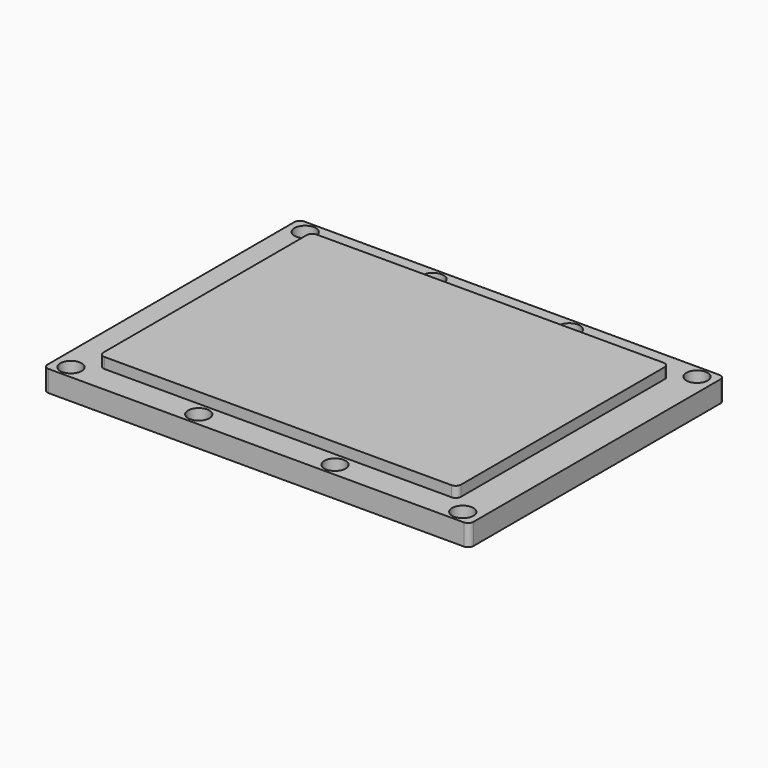
from build123d import *

# Parameters (mm, degrees)
SKETCH_W        = 40
SKETCH_H        = 30
PAD_DEPTH       = 2
SKETCH001_W     = 33.6
SKETCH001_H     = 24.9
PAD001_DEPTH    = 1
SKETCH002_R     = 1
POCKET_DEPTH    = 2
FILLET_R        = 0.5
SKETCH003_R     = 1
POCKET001_DEPTH = 2


with BuildPart() as part:
    # Sketch → Pad (new body)
    with BuildSketch(Plane.XY.offset(2)):
        Rectangle(SKETCH_W, SKETCH_H)
    extrude(amount=PAD_DEPTH)

    # Sketch001 (on Face6 of Pad) → Pad001 (join)
    with BuildSketch(Plane.XY.offset(4)):
        Rectangle(SKETCH001_W, SKETCH001_H)
    extrude(amount=PAD001_DEPTH)

    # Sketch002 → Pocket (cut)
    with BuildSketch(Plane.XY.offset(2)):
        with Locations((-18.4, 13.75)):
            Circle(SKETCH002_R)
        with Locations((-6.4, 13.75)):
            Circle(SKETCH002_R)
        with Locations((6.4, 13.75)):
            Circle(SKETCH002_R)
        with Locations((18.4, 13.75)):
            Circle(SKETCH002_R)
        with Locations((18.4, -13.75)):
            Circle(SKETCH002_R)
        with Locations((6.4, -13.75)):
            Circle(SKETCH002_R)
        with Locations((-6.4, -13.75)):
            Circle(SKETCH002_R)
        with Locations((-18.4, -13.75)):
            Circle(SKETCH002_R)
    extrude(amount=POCKET_DEPTH, mode=Mode.SUBTRACT)

    # Fillet
    fillet_edges = [part.edges().sort_by_distance(p)[0] for p in [
        (20, 15, 3),
        (16.8, 12.45, 4.5),
        (20, -15, 3),
        (16.8, -12.45, 4.5),
        (-20, -15, 3),
        (-16.8, -12.45, 4.5),
        (-20, 15, 3),
        (-16.8, 12.45, 4.5),
    ]]
    fillet(fillet_edges, radius=FILLET_R)

    # Sketch003 (on Face2 of Fillet) → Pocket001 (cut)
    with BuildSketch(Plane(origin=(0, 0, 2), x_dir=(1, 0, 0), z_dir=(0, 0, -1))):
        with Locations((-10, 5)):
            Circle(SKETCH003_R)
        with Locations((0, 5)):
            Circle(SKETCH003_R)
        with Locations((10, 5)):
            Circle(SKETCH003_R)
        with Locations((-10, -5)):
            Circle(SKETCH003_R)
        with Locations((0, -5)):
            Circle(SKETCH003_R)
        with Locations((10, -5)):
            Circle(SKETCH003_R)
    extrude(amount=-POCKET001_DEPTH, mode=Mode.SUBTRACT)


solid = part.part
